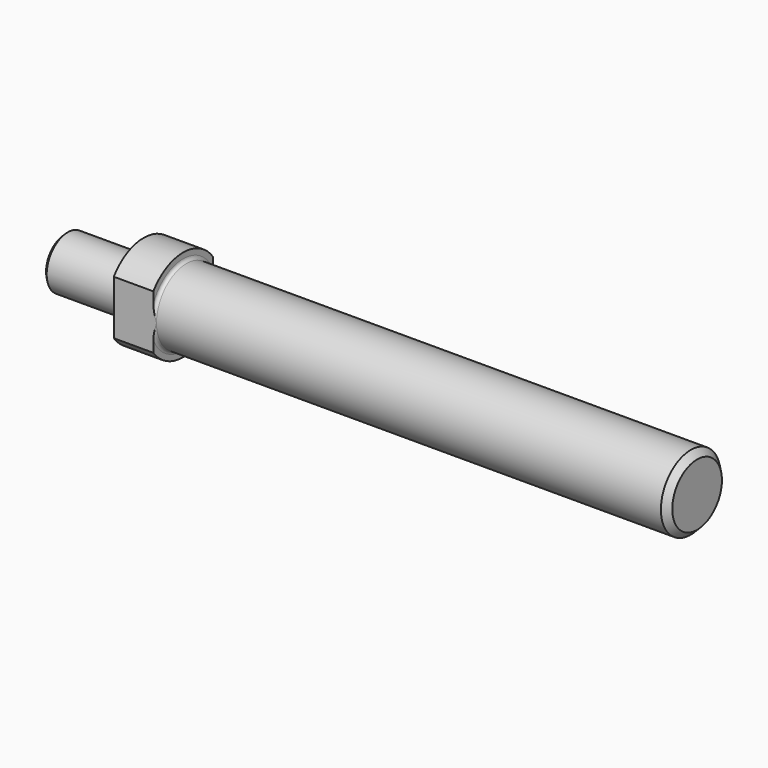
from build123d import *

# Parameters (mm, degrees)
F0_R           = 6.35
F1_DEPTH       = 19.05
F2_SIZE        = 0.762
F3_R           = 9
F4_DEPTH       = 133.35
F5_R           = 11.1125
F6_DEPTH       = 9.525
F7_R           = 0.762
F8_SIZE        = 1.524
F9_W           = 13.2510633147
F9_H           = 4.6713348329
F10_DEPTH      = 11.1135
F10_DEPTH_BACK = 11.1135


with BuildPart() as f1:
    # F0 (on Right) → F1 (new body)
    with BuildSketch(Plane.YZ):
        Circle(F0_R)
    extrude(amount=-F1_DEPTH)

    # F2
    f2_edges = [f1.edges().sort_by_distance(p)[0] for p in [
        (-19.05, -6.35, 0),
    ]]
    chamfer(f2_edges, length=F2_SIZE)

    # F3 (on Right) → F4 (join)
    with BuildSketch(Plane.YZ):
        Circle(F3_R)
    extrude(amount=F4_DEPTH)

    # F5 (on Right) → F6 (join)
    with BuildSketch(Plane.YZ):
        Circle(F5_R)
    extrude(amount=F6_DEPTH)

    # F7
    f7_edges = [f1.edges().sort_by_distance(p)[0] for p in [
        (9.525, -9, 0),
    ]]
    fillet(f7_edges, radius=F7_R)

    # F8
    f8_edges = [f1.edges().sort_by_distance(p)[0] for p in [
        (133.35, -9, 0),
    ]]
    chamfer(f8_edges, length=F8_SIZE)

    # F9 (on Top) → F10 (cut, two sides)
    with BuildSketch(Plane.XY) as f10_sk:
        with Locations((3.6614683426, 11.3356674165)):
            Rectangle(F9_W, F9_H)
        with Locations((3.6614683426, -11.3356674165)):
            Rectangle(F9_W, F9_H)
    extrude(amount=-F10_DEPTH, mode=Mode.SUBTRACT)
    extrude(f10_sk.sketch, amount=F10_DEPTH_BACK, mode=Mode.SUBTRACT)


solid = f1.part
